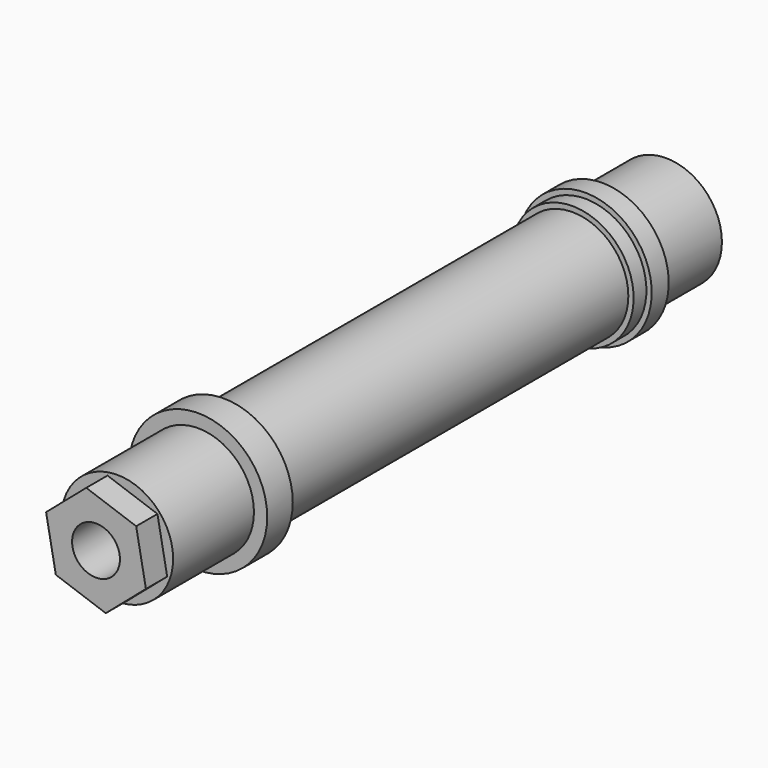
from build123d import *

# Parameters (mm, degrees)
F0_R          = 13
F1_DEPTH      = 6
F2_R          = 10.5
F3_DEPTH      = 19
F3_DEPTH_BACK = 110
F6_START      = -19
F5_R          = 11.5
F5_R_2        = 10.5
F6_DEPTH      = 3
F8_START      = -15
F7_R          = 12.5
F7_R_2        = 10.5
F8_DEPTH      = 4
F10_DEPTH     = 5
F11_R         = 4.5
F12_DEPTH     = 153


with BuildPart() as f1:
    # F0 (on Front) → F1 (new body)
    with BuildSketch(Plane.XZ):
        Circle(F0_R)
    extrude(amount=F1_DEPTH)

    # F2 (on face) → F3 (join, two sides)
    with BuildSketch(Plane.XZ.offset(6)) as f3_sk:
        Circle(F2_R)
    extrude(amount=F3_DEPTH)
    extrude(f3_sk.sketch, amount=-F3_DEPTH_BACK)

    # F5 (on face) → F6 (join)
    with BuildSketch(Plane(origin=(0, 104, 0), x_dir=(-1, 0, 0), z_dir=(0, 1, 0)).offset(F6_START)):
        Circle(F5_R)
        Circle(F5_R_2, mode=Mode.SUBTRACT)
    extrude(amount=-F6_DEPTH)

    # F7 (on face) → F8 (join)
    with BuildSketch(Plane(origin=(0, 104, 0), x_dir=(-1, 0, 0), z_dir=(0, 1, 0)).offset(F8_START)):
        Circle(F7_R)
        Circle(F7_R_2, mode=Mode.SUBTRACT)
    extrude(amount=-F8_DEPTH)

    # F9 (on face) → F10 (join)
    with BuildSketch(Plane.XZ.offset(25)):
        Polygon((9.3875564858, -3.3022610956), (7.5536202416, 6.4787318484), (-1.8339362442, 9.780992944), (-9.3875564858, 3.3022610956), (-7.5536202416, -6.4787318484), (1.8339362442, -9.780992944), align=None)
    extrude(amount=F10_DEPTH)

    # F11 (on face) → F12 (cut)
    with BuildSketch(Plane.XZ.offset(30)):
        Circle(F11_R)
    extrude(amount=-F12_DEPTH, mode=Mode.SUBTRACT)


solid = f1.part
